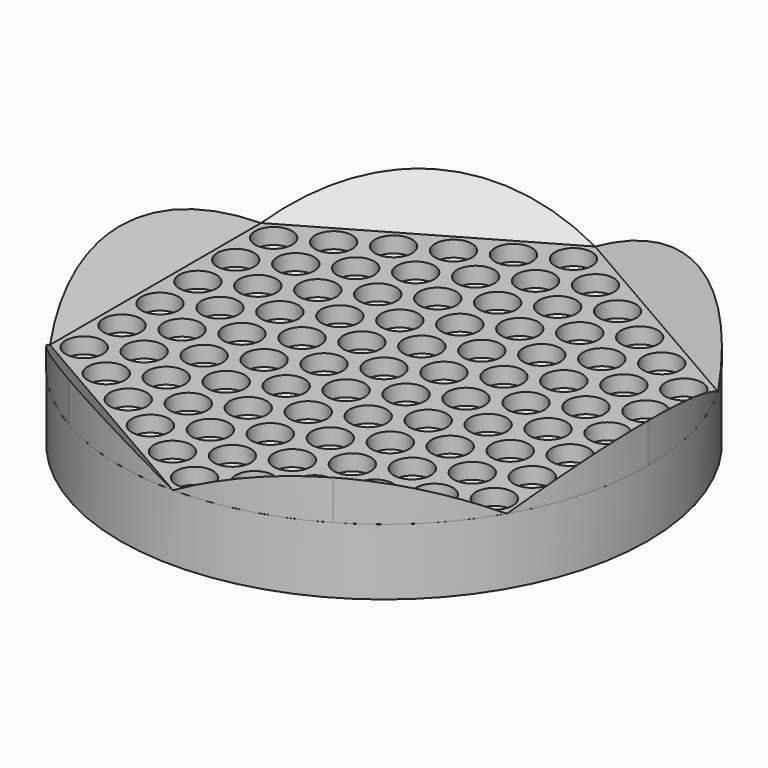
from build123d import *

# Parameters (mm, degrees)
F0_R      = 99.75
F1_DEPTH  = 25
F6_DEPTH  = 15
F8_DEPTH  = 150
F10_COUNT = 6
F10_ANGLE = 300
F11_D     = 8.9
F12_D     = 14
F12_DEPTH = 6
F12_TIP   = 4.2060243332


with BuildPart() as f1:
    # F0 (on Top) → F1 (new body)
    with BuildSketch(Plane.XY):
        Circle(F0_R)
    extrude(amount=-F1_DEPTH)

    # F2 (on Front) → F3 (revolve)
    with BuildSketch(Plane.XZ):
        with BuildLine():
            Line((0, -25), (-77.528, -25))
            ThreePointArc((-77.528, -25), (-50.4392292169, -37.8124528704), (-21.348, -45))
            Line((-21.348, -45), (0, -45))
            Line((0, -45), (0, -25))
        make_face()
    revolve(axis=Axis((0, 0, -35), (0, 0, -1)))

    # F11 (through all)
    with Locations(Plane.XY):
        with Locations((-77.5273188294, 44.76), (-77.5273188294, 26.856), (-77.5273188294, 8.952), (-77.5273188294, -8.952), (-77.5273188294, -26.856), (-77.5273188294, -44.76), (-62.0224, -53.712), (-62.0224, -35.808), (-62.0224, -17.904), (-62.0224, 0), (-62.0224, 17.904), (-62.0224, 35.808), (-62.0224, 53.712), (-46.5163188294, 62.664), (-46.5163188294, 44.76), (-46.5163188294, 26.856), (-46.5163188294, 8.952), (-46.5163188294, -8.952), (-46.5163188294, -26.856), (-46.5163188294, -44.76), (-46.5163188294, -62.664), (-31.0112, -71.616), (-31.0112, -53.712), (-31.0112, -35.808), (-31.0112, -17.904), (-31.0112, 0), (-31.0112, 17.904), (-31.0112, 35.808), (-31.0112, 53.712), (-31.0112, 71.616), (-15.5053188294, 80.568), (-15.5053188294, 62.664), (-15.5053188294, 44.76), (-15.5053188294, 26.856), (-15.5053188294, 8.952), (-15.5053188294, -8.952), (-15.5053188294, -26.856), (-15.5053188294, -44.76), (-15.5053188294, -62.664), (-15.5053188294, -80.568), (0, -89.52), (0, -71.616), (0, -53.712), (0, -35.808), (0, -17.904), (0, 0), (0, 17.904), (0, 35.808), (0, 53.712), (0, 71.616), (0, 89.52), (15.5053188294, 80.568), (15.5053188294, 62.664), (15.5053188294, 44.76), (15.5053188294, 26.856), (15.5053188294, 8.952), (15.5053188294, -8.952), (15.5053188294, -26.856), (15.5053188294, -44.76), (15.5053188294, -62.664), (15.5053188294, -80.568), (31.0112, -71.616), (31.0112, -53.712), (31.0112, -35.808), (31.0112, -17.904), (31.0112, 0), (31.0112, 17.904), (31.0112, 35.808), (31.0112, 53.712), (31.0112, 71.616), (46.5163188294, 62.664), (46.5163188294, 44.76), (46.5163188294, 26.856), (46.5163188294, 8.952), (46.5163188294, -8.952), (46.5163188294, -26.856), (46.5163188294, -44.76), (46.5163188294, -62.664), (62.0224, -53.712), (62.0224, -35.808), (62.0224, -17.904), (62.0224, 0), (62.0224, 17.904), (62.0224, 35.808), (62.0224, 53.712), (77.5273188294, 44.76), (77.5273188294, 26.856), (77.5273188294, 8.952), (77.5273188294, -8.952), (77.5273188294, -26.856), (77.5273188294, -44.76)):
            Hole(F11_D / 2)

    # F12
    with Locations(Plane.XY):
        with Locations((-77.5273188294, 44.76), (-77.5273188294, 26.856), (-77.5273188294, 8.952), (-77.5273188294, -8.952), (-77.5273188294, -26.856), (-77.5273188294, -44.76), (-62.0224, -53.712), (-62.0224, -35.808), (-62.0224, -17.904), (-62.0224, 0), (-62.0224, 17.904), (-62.0224, 35.808), (-62.0224, 53.712), (-46.5163188294, 62.664), (-46.5163188294, 44.76), (-46.5163188294, 26.856), (-46.5163188294, 8.952), (-46.5163188294, -8.952), (-46.5163188294, -26.856), (-46.5163188294, -44.76), (-46.5163188294, -62.664), (-31.0112, -71.616), (-31.0112, -53.712), (-31.0112, -35.808), (-31.0112, -17.904), (-31.0112, 0), (-31.0112, 17.904), (-31.0112, 35.808), (-31.0112, 53.712), (-31.0112, 71.616), (-15.5053188294, 80.568), (-15.5053188294, 62.664), (-15.5053188294, 44.76), (-15.5053188294, 26.856), (-15.5053188294, 8.952), (-15.5053188294, -8.952), (-15.5053188294, -26.856), (-15.5053188294, -44.76), (-15.5053188294, -62.664), (-15.5053188294, -80.568), (0, 89.52), (0, 71.616), (0, 53.712), (0, 35.808), (0, 17.904), (0, 0), (0, -17.904), (0, -35.808), (0, -53.712), (0, -71.616), (0, -89.52), (15.5053188294, -80.568), (15.5053188294, -62.664), (15.5053188294, -44.76), (15.5053188294, -26.856), (15.5053188294, -8.952), (15.5053188294, 8.952), (15.5053188294, 26.856), (15.5053188294, 44.76), (15.5053188294, 62.664), (15.5053188294, 80.568), (31.0112, 71.616), (31.0112, 53.712), (31.0112, 35.808), (31.0112, 17.904), (31.0112, 0), (31.0112, -17.904), (31.0112, -35.808), (31.0112, -53.712), (31.0112, -71.616), (46.5163188294, -62.664), (46.5163188294, -44.76), (46.5163188294, -26.856), (46.5163188294, -8.952), (46.5163188294, 8.952), (46.5163188294, 26.856), (46.5163188294, 44.76), (46.5163188294, 62.664), (62.0224, 53.712), (62.0224, 35.808), (62.0224, 17.904), (62.0224, 0), (62.0224, -17.904), (62.0224, -35.808), (62.0224, -53.712), (77.5273188294, -44.76), (77.5273188294, -26.856), (77.5273188294, -8.952), (77.5273188294, 8.952), (77.5273188294, 26.856), (77.5273188294, 44.76)):
            Hole(F12_D / 2, depth=F12_DEPTH)
            with Locations((0, 0, -(F12_DEPTH + F12_TIP / 2))):  # 118° drill point
                Cone(0, F12_D / 2, F12_TIP, mode=Mode.SUBTRACT)


with BuildPart() as f6:
    # F5 (on face) → F6 (new body)
    with BuildSketch(Plane.XY):
        with BuildLine():
            ThreePointArc((99.75, 0), (96.3511011723, 25.817199749), (86.3860340275, 49.875))
            Line((86.3860340275, 49.875), (86.3860340275, -49.875))
            ThreePointArc((86.3860340275, -49.875), (96.3511011723, -25.817199749), (99.75, 0))
        make_face()
    extrude(amount=F6_DEPTH)

    # F7 (on Front) → F8 (cut, symmetric)
    with BuildSketch(Plane.XZ):
        Polygon((86.3860340275, 15), (86.3860340275, 0), (99.75, 15), align=None)
    extrude(amount=F8_DEPTH, both=True, mode=Mode.SUBTRACT)


with BuildPart() as f10_1:
    # F10: instance of F6
    add(f6.part.rotate(Axis((0, 0, 3.4761428833), (0, 0, -1)), 1 * F10_ANGLE / (F10_COUNT - 1)))


with BuildPart() as f10_2:
    # F10: instance of F6
    add(f6.part.rotate(Axis((0, 0, 3.4761428833), (0, 0, -1)), 2 * F10_ANGLE / (F10_COUNT - 1)))


with BuildPart() as f10_3:
    # F10: instance of F6
    add(f6.part.rotate(Axis((0, 0, 3.4761428833), (0, 0, -1)), 3 * F10_ANGLE / (F10_COUNT - 1)))


with BuildPart() as f10_4:
    # F10: instance of F6
    add(f6.part.rotate(Axis((0, 0, 3.4761428833), (0, 0, -1)), 4 * F10_ANGLE / (F10_COUNT - 1)))


with BuildPart() as f10_5:
    # F10: instance of F6
    add(f6.part.rotate(Axis((0, 0, 3.4761428833), (0, 0, -1)), 5 * F10_ANGLE / (F10_COUNT - 1)))


solid = Compound([f1.part, f6.part, f10_1.part, f10_2.part, f10_3.part, f10_4.part, f10_5.part])
